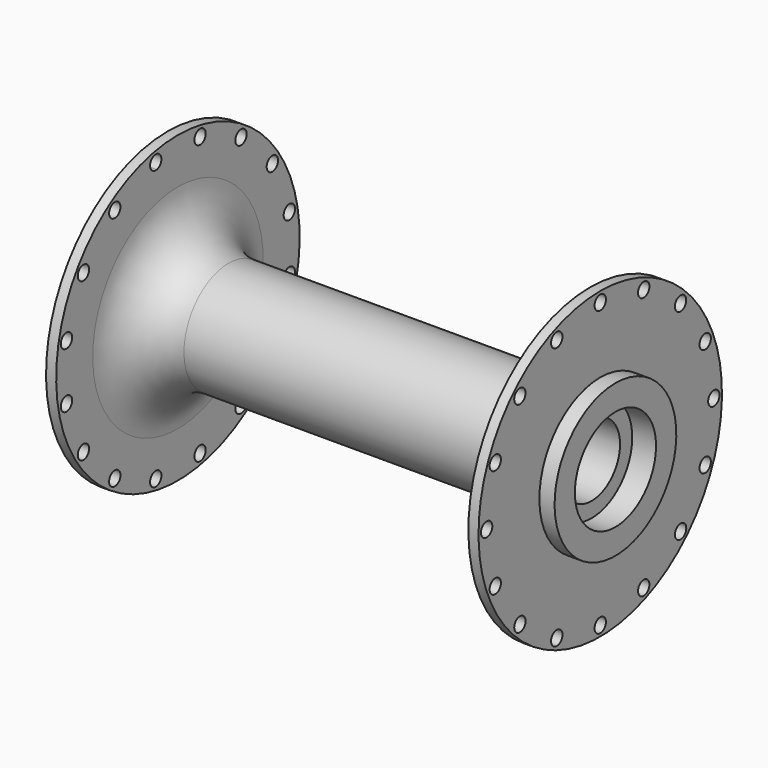
from build123d import *

# Parameters (mm, degrees)
F2_R     = 35.56
F3_DEPTH = 302.26
F4_R     = 35.56
F5_DEPTH = 431.8


with BuildPart() as f1:
    # F0 (on Front) → F1 (revolve)
    with BuildSketch(Plane.XZ):
        with BuildLine():
            Line((-1159.141141, 381), (-1159.141141, 254))
            Line((-1159.141141, 254), (-1039.907064, 254))
            Line((-1039.907064, 254), (-1039.907064, 177.8))
            Line((-1039.907064, 177.8), (0, 177.8))
            Line((0, 177.8), (1039.907064, 177.8))
            Line((1039.907064, 177.8), (1039.907064, 254))
            Line((1039.907064, 254), (1159.141141, 254))
            Line((1159.141141, 254), (1159.141141, 381))
            Line((1159.141141, 381), (1082.941141, 381))
            Line((1082.941141, 381), (1082.941141, 762))
            Line((1082.941141, 762), (1032.141141, 762))
            Line((1032.141141, 762), (1032.141141, 533.4))
            ThreePointArc((1032.141141, 533.4), (957.746263, 353.794878), (778.141141, 279.4))
            Line((778.141141, 279.4), (0, 279.4))
            Line((0, 279.4), (-778.141141, 279.4))
            ThreePointArc((-778.141141, 279.4), (-957.746263, 353.794878), (-1032.141141, 533.4))
            Line((-1032.141141, 533.4), (-1032.141141, 762))
            Line((-1032.141141, 762), (-1082.941141, 762))
            Line((-1082.941141, 762), (-1082.941141, 381))
            Line((-1082.941141, 381), (-1159.141141, 381))
        make_face()
    revolve(axis=Axis((110.858859, 0, 0), (1, 0, 0)))

    # F2 (on face) → F3 (cut)
    with BuildSketch(Plane.YZ.offset(1082.941141)):
        with Locations((0, 711.2)):
            Circle(F2_R)
        with Locations((-272.164457, 657.063124)):
            Circle(F2_R)
        with Locations((-502.894343, 502.894343)):
            Circle(F2_R)
        with Locations((-657.063124, 272.164457)):
            Circle(F2_R)
        with Locations((-711.2, 0)):
            Circle(F2_R)
        with Locations((-657.063124, -272.164457)):
            Circle(F2_R)
        with Locations((-502.894343, -502.894343)):
            Circle(F2_R)
        with Locations((-272.164457, -657.063124)):
            Circle(F2_R)
        with Locations((0, -711.2)):
            Circle(F2_R)
        with Locations((272.164457, -657.063124)):
            Circle(F2_R)
        with Locations((502.894343, -502.894343)):
            Circle(F2_R)
        with Locations((657.063124, -272.164457)):
            Circle(F2_R)
        with Locations((711.2, 0)):
            Circle(F2_R)
        with Locations((657.063124, 272.164457)):
            Circle(F2_R)
        with Locations((502.894343, 502.894343)):
            Circle(F2_R)
        with Locations((272.164457, 657.063124)):
            Circle(F2_R)
    extrude(amount=-F3_DEPTH, mode=Mode.SUBTRACT)

    # F4 (on face) → F5 (cut)
    with BuildSketch(Plane(origin=(-1082.941141, 0, 0), x_dir=(0, -1, 0), z_dir=(-1, 0, 0))):
        with BuildLine():
            ThreePointArc((145.685649, 732.411216), (103.871512, 704.471903), (131.810825, 662.657767))
            Line((131.810825, 662.657767), (145.685649, 732.411216))
        make_face()
        with BuildLine():
            Line((145.685649, 732.411216), (131.810825, 662.657767))
            ThreePointArc((131.810825, 662.657767), (161.307262, 670.04624), (174.308237, 697.534491))
            ThreePointArc((174.308237, 697.534491), (166.236489, 720.093517), (145.685649, 732.411216))
        make_face()
        with Locations((-138.748237, 697.534491)):
            Circle(F4_R)
        with Locations((-395.12155, 591.341188)):
            Circle(F4_R)
        with Locations((-591.341188, 395.12155)):
            Circle(F4_R)
        with Locations((-697.534491, 138.748237)):
            Circle(F4_R)
        with Locations((-697.534491, -138.748237)):
            Circle(F4_R)
        with Locations((-591.341188, -395.12155)):
            Circle(F4_R)
        with Locations((-395.12155, -591.341188)):
            Circle(F4_R)
        with Locations((-138.748237, -697.534491)):
            Circle(F4_R)
        with Locations((138.748237, -697.534491)):
            Circle(F4_R)
        with Locations((395.12155, -591.341188)):
            Circle(F4_R)
        with Locations((591.341188, -395.12155)):
            Circle(F4_R)
        with Locations((697.534491, -138.748237)):
            Circle(F4_R)
        with Locations((697.534491, 138.748237)):
            Circle(F4_R)
        with Locations((591.341188, 395.12155)):
            Circle(F4_R)
        with Locations((395.12155, 591.341188)):
            Circle(F4_R)
    extrude(amount=-F5_DEPTH, mode=Mode.SUBTRACT)


solid = f1.part
